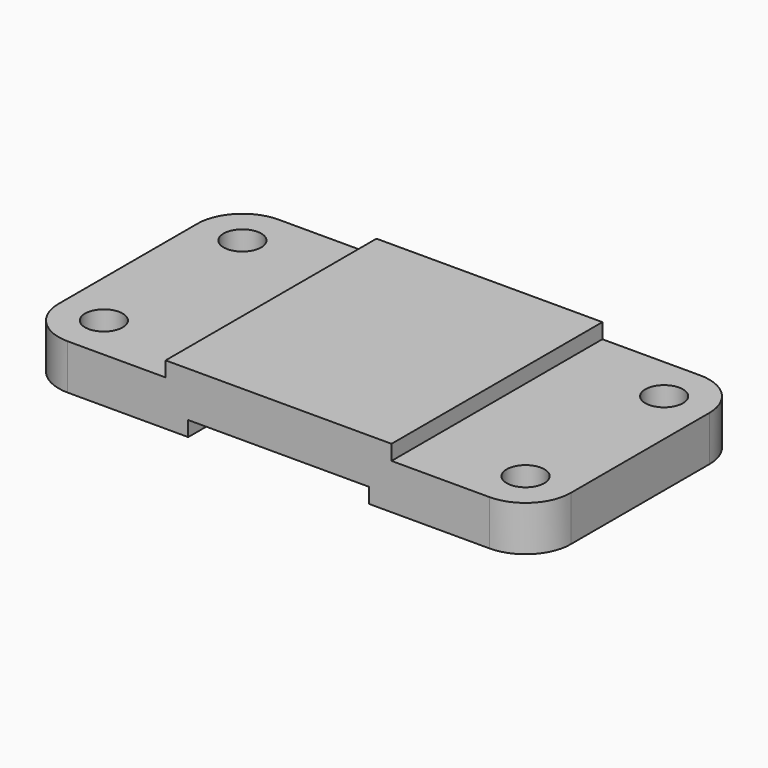
from build123d import *

# Parameters (mm, degrees)
F1_DEPTH = 35
F2_R     = 12
F3_R     = 5
F4_DEPTH = 25.4
F6_D     = 10


with BuildPart() as f1:
    # F0 (on Front) → F1 (new body, symmetric)
    with BuildSketch(Plane.XZ):
        Polygon((38, 0), (0, 0), (0, -12), (44, -12), (44, -8), (92, -8), (92, -12), (136, -12), (136, 0), (98, 0), (98, 4), (68, 4), (38, 4), align=None)
    extrude(amount=F1_DEPTH, both=True)

    # F2
    f2_edges = [f1.edges().sort_by_distance(p)[0] for p in [
        (0, -35, -6),
        (136, -35, -6),
        (136, 35, -6),
        (0, 35, -6),
    ]]
    fillet(f2_edges, radius=F2_R)

    # F3 (on face) → F4 (cut)
    with BuildSketch(Plane.XY):
        with Locations((12, 23)):
            Circle(F3_R)
        with Locations((12, -23)):
            Circle(F3_R)
    extrude(amount=-F4_DEPTH, mode=Mode.SUBTRACT)

    # F6 (through all)
    with Locations(Plane.XY):
        with Locations((124, 23), (124, -23)):
            Hole(F6_D / 2)


solid = f1.part
